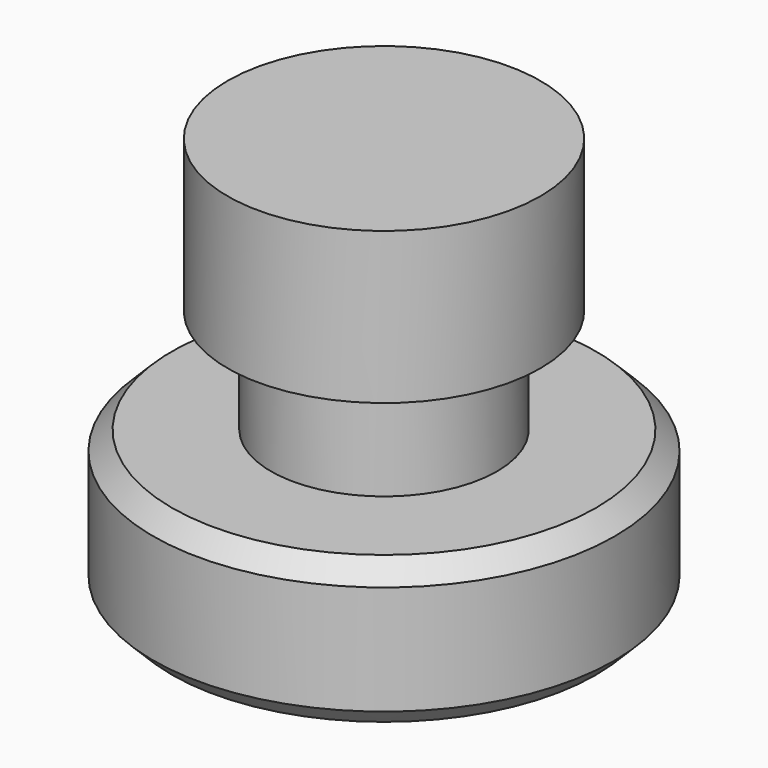
from build123d import *

# Parameters (mm, degrees)
F0_R     = 3
F1_DEPTH = 6.8
F2_R     = 6.125
F3_DEPTH = 3.9
F4_SIZE  = 0.5
F5_R     = 4.15
F6_DEPTH = 4.02


with BuildPart() as f1:
    # F0 (on Top) → F1 (new body)
    with BuildSketch(Plane.XY):
        Circle(F0_R)
    extrude(amount=F1_DEPTH)

    # F2 (on face) → F3 (join)
    with BuildSketch(Plane(origin=(0, 0, 0), x_dir=(1, 0, 0), z_dir=(0, 0, -1))):
        Circle(F2_R)
    extrude(amount=F3_DEPTH)

    # F4
    f4_edges = [f1.edges().sort_by_distance(p)[0] for p in [
        (-6.125, 0, 0),
        (-6.125, 0, -3.9),
    ]]
    chamfer(f4_edges, length=F4_SIZE)

    # F5 (on face) → F6 (join)
    with BuildSketch(Plane.XY.offset(6.8)):
        Circle(F5_R)
    extrude(amount=-F6_DEPTH)


solid = f1.part
